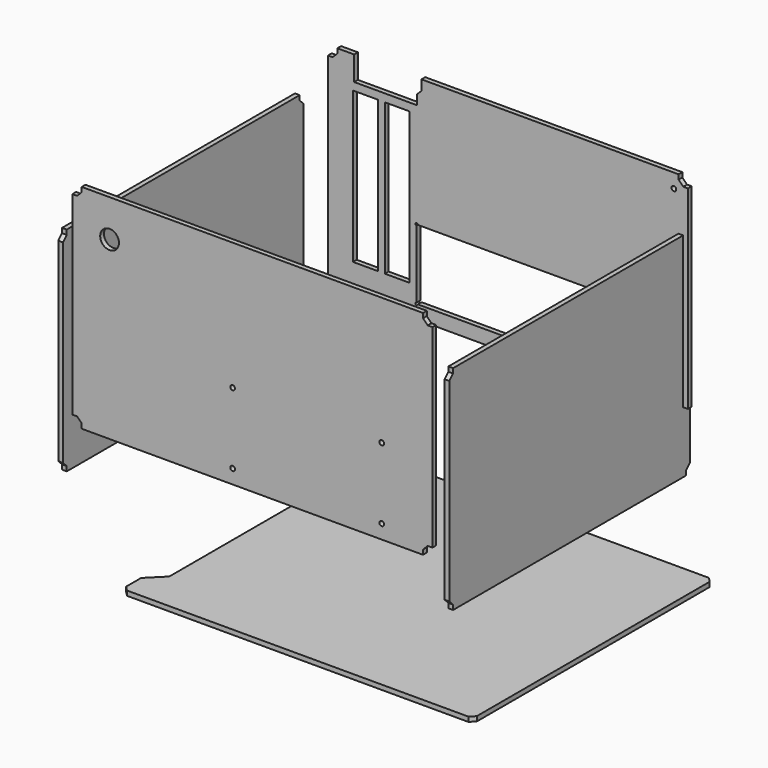
from build123d import *

# Parameters (mm, degrees)
F2_DEPTH  = 3
F5_DEPTH  = 3
F7_R      = 1.5
F8_DEPTH  = 3
F11_DEPTH = 3
F14_DEPTH = 3
F15_R     = 1.5
F15_R_2   = 6
F16_DEPTH = 25
F17_W     = 15.9
F17_H     = 96.4
F18_DEPTH = 25
F20_DEPTH = 25


with BuildPart() as f2:
    # F1 (on offset) → F2 (new body)
    with BuildSketch(Plane.XZ.offset(80)):
        Polygon((116.807646, 92.968537), (-101.192354, 92.968537), (-101.192354, 89.968537), (-104.192354, 86.968537), (-107.192354, 86.968537), (-107.192354, -37.031463), (-104.192354, -37.031463), (-101.192354, -40.031463), (-101.192354, -43.031463), (116.807646, -43.031463), (116.807646, -40.031463), (119.807646, -37.031463), (122.807646, -37.031463), (122.807646, 86.968537), (119.807646, 86.968537), (116.807646, 89.968537), align=None)
    extrude(amount=F2_DEPTH)

    # F15 (on face) → F16 (cut)
    with BuildSketch(Plane.XZ.offset(83)):
        with Locations((-4.817354, -34.031463)):
            Circle(F15_R)
        with Locations((-4.817354, 11.418537)):
            Circle(F15_R)
        with Locations((90.432646, 11.418537)):
            Circle(F15_R)
        with Locations((90.432646, -34.031463)):
            Circle(F15_R)
        with Locations((-83.417354, 69.193537)):
            Circle(F15_R_2)
    extrude(amount=-F16_DEPTH, mode=Mode.SUBTRACT)


with BuildPart() as f5:
    # F4 (on offset) → F5 (new body)
    with BuildSketch(Plane.YZ.offset(120)):
        Polygon((119.286627, 57.326751), (-66.713373, 57.326751), (-66.713373, 54.326751), (-69.713373, 51.326751), (-69.713373, -72.673249), (-66.713373, -75.673249), (-66.713373, -78.673249), (119.286627, -78.673249), (119.286627, -75.673249), (122.286627, -72.673249), (122.286627, 51.326751), (119.286627, 54.326751), align=None)
    extrude(amount=F5_DEPTH)


with BuildPart() as f8:
    # F7 (on offset) → F8 (new body)
    with BuildSketch(Plane.XZ.offset(-120)):
        Polygon((120.065092, 87.698919), (120.065092, 90.698919), (-97.934908, 90.698919), (-97.934908, 87.698919), (-100.934908, 84.698919), (-103.934908, 84.698919), (-103.934908, -39.301081), (-100.934908, -39.301081), (-97.934908, -42.301081), (-97.934908, -45.301081), (120.065092, -45.301081), (120.065092, -42.301081), (123.065092, -39.301081), (126.065092, -39.301081), (126.065092, 84.698919), (123.065092, 84.698919), align=None)
        with Locations((117.065092, -36.301081)):
            Circle(F7_R, mode=Mode.SUBTRACT)
        with Locations((117.065092, 81.698919)):
            Circle(F7_R, mode=Mode.SUBTRACT)
    extrude(amount=F8_DEPTH)

    # F17 (on face) → F18 (cut)
    with BuildSketch(Plane(origin=(0, 120, 0), x_dir=(-1, 0, 0), z_dir=(0, 1, 0))):
        with Locations((59.634908, 21.998919)):
            Rectangle(F17_W, F17_H)
        with Locations((79.934908, 21.998919)):
            Rectangle(F17_W, F17_H)
        Polygon((-110.915092, 8.098919), (-111.665092, 8.098919), (-111.665092, 7.348919), (-111.665092, -35.851081), (-111.665092, -36.601081), (-110.915092, -36.601081), (46.584908, -36.601081), (47.334908, -36.601081), (47.334908, -35.851081), (47.334908, 7.348919), (47.334908, 8.098919), (46.584908, 8.098919), align=None)
        with BuildLine():
            Line((-111.665092, 7.348919), (-111.665092, 8.098919))
            Line((-111.665092, 8.098919), (-110.915092, 8.098919))
            ThreePointArc((-110.915092, 8.098919), (-112.195422, 8.629249), (-111.665092, 7.348919))
        make_face()
        with BuildLine():
            Line((-111.665092, -36.601081), (-111.665092, -35.851081))
            ThreePointArc((-111.665092, -35.851081), (-112.195422, -37.131411), (-110.915092, -36.601081))
            Line((-110.915092, -36.601081), (-111.665092, -36.601081))
        make_face()
        with BuildLine():
            ThreePointArc((47.334908, 7.348919), (47.865238, 8.629249), (46.584908, 8.098919))
            Line((46.584908, 8.098919), (47.334908, 8.098919))
            Line((47.334908, 8.098919), (47.334908, 7.348919))
        make_face()
        with BuildLine():
            Line((47.334908, -36.601081), (46.584908, -36.601081))
            ThreePointArc((46.584908, -36.601081), (47.865238, -37.131411), (47.334908, -35.851081))
            Line((47.334908, -35.851081), (47.334908, -36.601081))
        make_face()
        Polygon((47.184908, 81.198919), (47.184908, 75.198919), (87.184908, 75.198919), (87.184908, 90.698919), (44.184908, 90.698919), (44.184908, 84.198919), align=None)
    extrude(amount=-F18_DEPTH, mode=Mode.SUBTRACT)


with BuildPart() as f11:
    # F10 (on offset) → F11 (new body)
    with BuildSketch(Plane.YZ.offset(-126)):
        Polygon((118.273727, 55.680823), (-67.726273, 55.680823), (-67.726273, 52.680823), (-70.726273, 49.680823), (-70.726273, -74.319177), (-67.726273, -77.319177), (-67.726273, -80.319177), (118.273727, -80.319177), (118.273727, -77.319177), (121.273727, -74.319177), (121.273727, 49.680823), (118.273727, 52.680823), align=None)
    extrude(amount=F11_DEPTH)


with BuildPart() as f14:
    # F13 (on offset) → F14 (new body)
    with BuildSketch(Plane.XY.offset(-152)):
        Polygon((-104.542598, -43.385352), (-101.542598, -46.385352), (116.457402, -46.385352), (119.457402, -43.385352), (119.457402, 142.614648), (116.457402, 145.614648), (-101.542598, 145.614648), (-104.542598, 142.614648), align=None)
    extrude(amount=F14_DEPTH)

    # F19 (on face) → F20 (cut)
    with BuildSketch(Plane(origin=(0, 0, -152), x_dir=(1, 0, 0), z_dir=(0, 0, -1))):
        Polygon((-94.542598, 21.385352), (-104.542598, 31.385352), (-104.542598, -130.614648), (-94.542598, -120.614648), align=None)
    extrude(amount=-F20_DEPTH, mode=Mode.SUBTRACT)


solid = Compound([f2.part, f5.part, f8.part, f11.part, f14.part])
